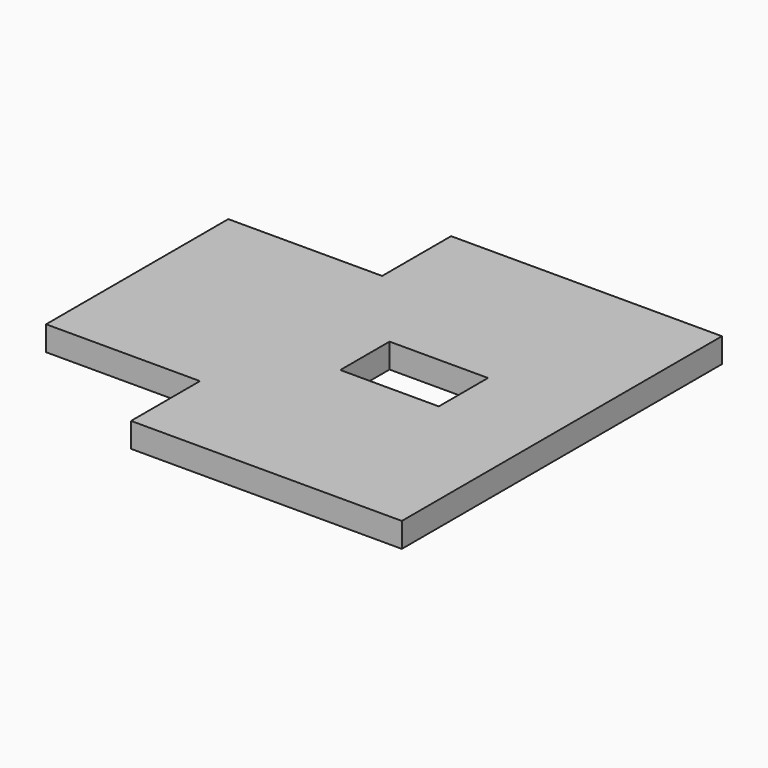
from build123d import *

# Parameters (mm, degrees)
PAD002_DEPTH    = 0.4
SKETCH010_W     = 1.6
SKETCH010_H     = 1
POCKET006_DEPTH = 0.401


with BuildPart() as contact:
    # Sketch009 (on Face1 of ShapeBinder) → Pad002 (new body)
    with BuildSketch(Plane(origin=(0, 0, 0), x_dir=(1, 0, 0), z_dir=(0, 0, -1))):
        Polygon((36.05, 11.4), (38.55, 11.4), (38.55, 12.8), (42.95, 12.8), (42.95, 6.3), (38.55, 6.3), (38.55, 7.7), (36.05, 7.7), align=None)
    extrude(amount=-PAD002_DEPTH)

    # Sketch010 (on Face9 of Pad002) → Pocket006 (cut, through all)
    with BuildSketch(Plane(origin=(0, 0, 0), x_dir=(1, 0, 0), z_dir=(0, 0, -1))):
        with Locations((40.55, 9.55)):
            Rectangle(SKETCH010_W, SKETCH010_H)
    extrude(amount=-POCKET006_DEPTH, mode=Mode.SUBTRACT)


with BuildPart() as mirror002:
    # mirror002: instance of contact
    add(contact.part.mirror(Plane(origin=(-38.55, 0, 15), x_dir=(-1, 0, 0), z_dir=(0, -1, 0))))


solid = mirror002.part
